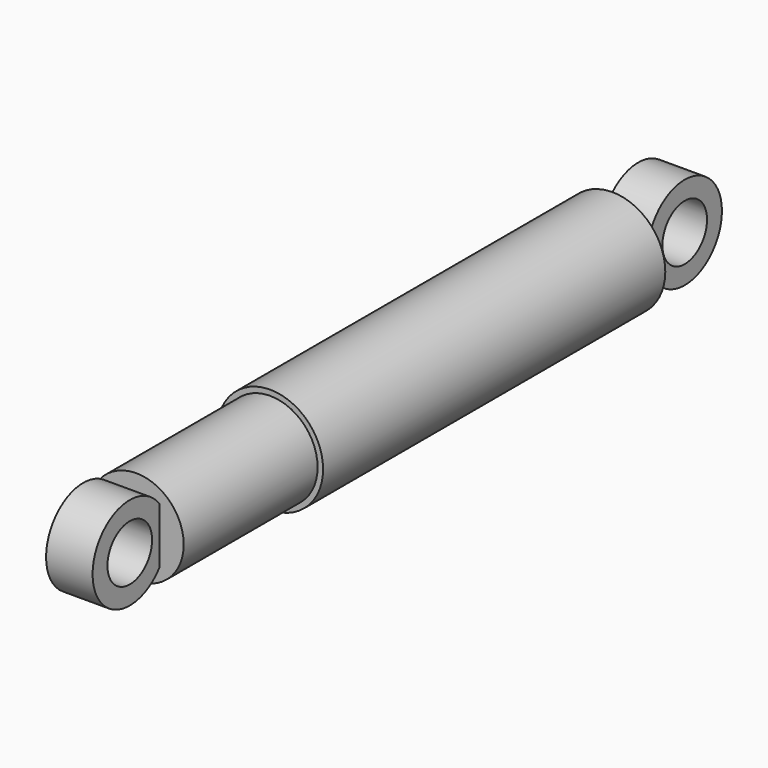
from build123d import *

# Parameters (mm, degrees)
F0_R      = 28.45
F1_DEPTH  = 230
F2_R      = 25.5
F3_DEPTH  = 90
F8_R      = 8
F9_DEPTH  = 5
F11_R     = 25
F11_R_2   = 15
F12_DEPTH = 12.5


with BuildPart() as f1:
    # F0 (on Front) → F1 (new body)
    with BuildSketch(Plane.XZ):
        Circle(F0_R)
    extrude(amount=F1_DEPTH)

    # F2 (on face) → F3 (join)
    with BuildSketch(Plane.XZ.offset(230)):
        Circle(F2_R)
    extrude(amount=F3_DEPTH)

    # F4 (on Right) → F5 (revolve)
    with BuildSketch(Plane.YZ):
        Polygon((-285, -21.45), (-285, 0), (-320, 0), (-320, -25.5), align=None)
    revolve(axis=Axis((0, -302.5, 0), (0, 1, 0)))

    # F6 (on Right) → F7 (revolve)
    with BuildSketch(Plane.YZ):
        Polygon((8, 0), (0, 0), (0, -19.82), (8, -8), align=None)
    revolve(axis=Axis((0, 4, 0), (0, 1, 0)))

    # F8 (on face) → F9 (join)
    with BuildSketch(Plane(origin=(0, 8, 0), x_dir=(-1, 0, 0), z_dir=(0, 1, 0))):
        Circle(F8_R)
    extrude(amount=F9_DEPTH)

    # F11 (on Right) → F12 (join, symmetric)
    with BuildSketch(Plane.YZ):
        with Locations((-340, 0)):
            Circle(F11_R)
        with Locations((-340, 0)):
            Circle(F11_R_2, mode=Mode.SUBTRACT)
        with Locations((33, 0)):
            Circle(F11_R)
        with Locations((33, 0)):
            Circle(F11_R_2, mode=Mode.SUBTRACT)
    extrude(amount=F12_DEPTH, both=True)


solid = f1.part
